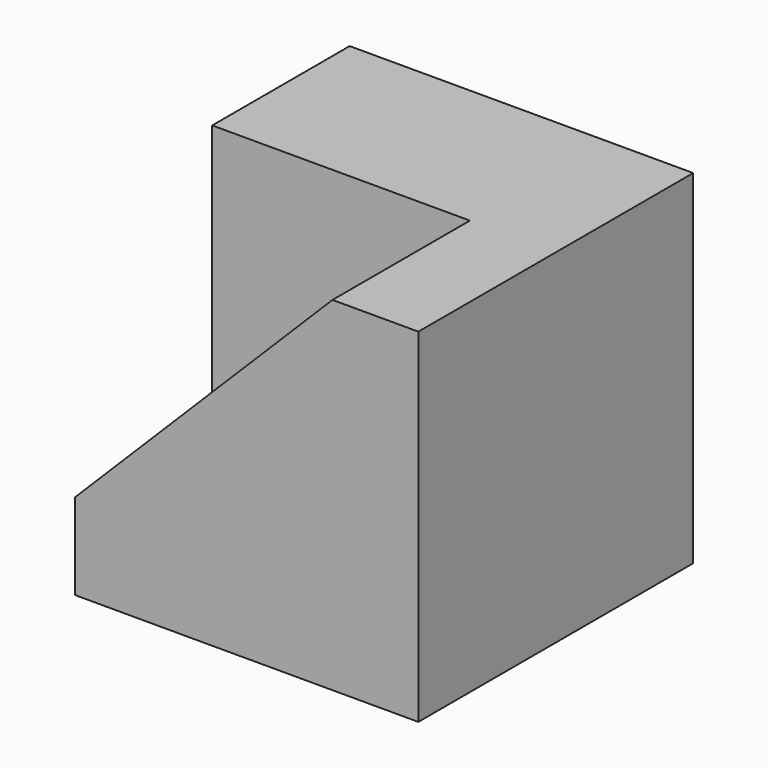
from build123d import *

# Parameters (mm, degrees)
F0_W     = 76.2
F0_H     = 76.2
F1_DEPTH = 38.1
F3_DEPTH = 38.1


with BuildPart() as f1:
    # F0 (on Front) → F1 (new body)
    with BuildSketch(Plane.XZ):
        with Locations((38.1, 38.1)):
            Rectangle(F0_W, F0_H)
    extrude(amount=F1_DEPTH)

    # F2 (on face) → F3 (join)
    with BuildSketch(Plane.XZ.offset(38.1)):
        Polygon((0, 19.05), (0, 0), (76.2, 0), (76.2, 76.2), (57.15, 76.2), align=None)
    extrude(amount=F3_DEPTH)


solid = f1.part
